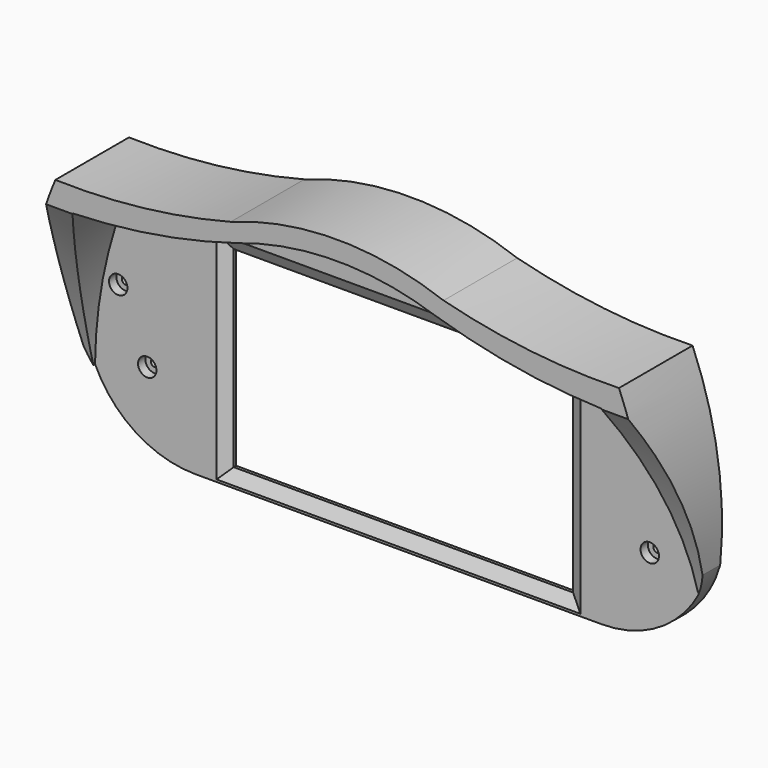
from build123d import *

# Parameters (mm, degrees)
PAD023_DEPTH     = 30
POCKET022_DEPTH  = 203.460811
POCKET023_DEPTH  = 25.001
SKETCH049_W      = 110.6
SKETCH049_H      = 62.6
POCKET024_DEPTH  = 33.001
SKETCH051_W      = 120.3
SKETCH051_H      = 69.7
POCKET025_DEPTH  = 2
CHAMFER001_SIZE2 = 2
CHAMFER001_SIZE  = 4
SKETCH054_R      = 1.25
POCKET029_DEPTH  = 7.001
SKETCH052_R      = 3
POCKET030_DEPTH  = 3


with BuildPart() as part:
    # Sketch045 → Pad023 (new body)
    with BuildSketch(Plane.XZ.offset(7)):
        with BuildLine():
            ThreePointArc((-100.852547, 31.281341), (-87.977329, 12.342987), (-66.272551, 5.039896))
            Line((-66.272551, 5.039896), (66.272551, 5.039896))
            ThreePointArc((66.272551, 5.039896), (87.977329, 12.342987), (100.852547, 31.281341))
            ThreePointArc((100.852547, 31.281341), (100.091262, 61.855424), (91.843705, 91.305923))
            ThreePointArc((34.688969, 97.850786), (63.036347, 92.569904), (91.843705, 91.305923))
            ThreePointArc((34.688969, 97.850786), (0, 104.060193), (-34.688969, 97.850786))
            ThreePointArc((-91.843705, 91.305923), (-63.036347, 92.569904), (-34.688969, 97.850786))
            ThreePointArc((-91.843705, 91.305923), (-100.091262, 61.855424), (-100.852547, 31.281341))
        make_face()
    extrude(amount=PAD023_DEPTH)

    # Sketch048 → Pocket022 (cut, through all)
    with BuildSketch(Plane.YZ.offset(102)):
        with BuildLine():
            ThreePointArc((-12, 23.34), (-23.12479, 56.152072), (-39.155961, 86.866801))
            Line((-39.155961, 23.34), (-39.155961, 86.866801))
            Line((-39.155961, 23.34), (-12, 23.34))
        make_face()
    extrude(amount=-POCKET022_DEPTH, mode=Mode.SUBTRACT)

    # Sketch050 → Pocket023 (cut, through all)
    with BuildSketch(Plane.XZ.offset(12)):
        with BuildLine():
            ThreePointArc((-86.154363, 83.544791), (-58.846051, 86.250597), (-32.141142, 92.568282))
            ThreePointArc((32.141142, 92.568282), (0, 97.874317), (-32.141142, 92.568282))
            ThreePointArc((32.141142, 92.568282), (58.846051, 86.250597), (86.154363, 83.544791))
            ThreePointArc((93.603594, -14.330003), (97.449111, 35.183555), (86.154363, 83.544791))
            Line((-93.603594, -14.330003), (93.603594, -14.330003))
            ThreePointArc((-86.154363, 83.544791), (-98.508002, 35.264147), (-93.603594, -14.330003))
        make_face()
    extrude(amount=POCKET023_DEPTH, mode=Mode.SUBTRACT)

    # Sketch049 → Pocket024 (cut, through all)
    with BuildSketch(Plane.XZ.offset(4)):
        with Locations((0, 41.080998)):
            Rectangle(SKETCH049_W, SKETCH049_H)
    extrude(amount=POCKET024_DEPTH, mode=Mode.SUBTRACT)

    # Sketch051 → Pocket025 (cut)
    with BuildSketch(Plane(origin=(0, -7, 41), x_dir=(1, 0, 0), z_dir=(0, -1, 0))):
        with Locations((-3.04, -0.08)):
            Rectangle(SKETCH051_W, SKETCH051_H)
    extrude(amount=POCKET025_DEPTH, mode=Mode.SUBTRACT)

    # Chamfer001
    chamfer001_edges = [part.edges().sort_by_distance(p)[0] for p in [
        (55.3, -12, 41.080998),
        (0, -12, 72.380998),
        (-55.3, -12, 41.080998),
        (0, -12, 9.780998),
    ]]
    chamfer001_side = part.faces().sort_by_distance((-83.299387, -12, 11.829323))[0]
    chamfer(chamfer001_edges, length=CHAMFER001_SIZE, length2=CHAMFER001_SIZE2, reference=chamfer001_side)

    # Sketch054 → Pocket029 (cut, through all)
    with BuildSketch(Plane.XZ.offset(14)):
        with Locations((-81.894745, 30.682003)):
            Circle(SKETCH054_R)
        with Locations((-91.343391, 51.252899)):
            Circle(SKETCH054_R)
        with Locations((91.343391, 51.252899)):
            Circle(SKETCH054_R)
        with Locations((81.894745, 30.682003)):
            Circle(SKETCH054_R)
    extrude(amount=-POCKET029_DEPTH, mode=Mode.SUBTRACT)

    # Sketch052 → Pocket030 (cut)
    with BuildSketch(Plane.XZ.offset(12)):
        with Locations((-81.894745, 30.682003)):
            Circle(SKETCH052_R)
        with Locations((81.894745, 30.682003)):
            Circle(SKETCH052_R)
        with Locations((91.343391, 51.252899)):
            Circle(SKETCH052_R)
        with Locations((-91.343391, 51.252899)):
            Circle(SKETCH052_R)
    extrude(amount=-POCKET030_DEPTH, mode=Mode.SUBTRACT)


solid = part.part
